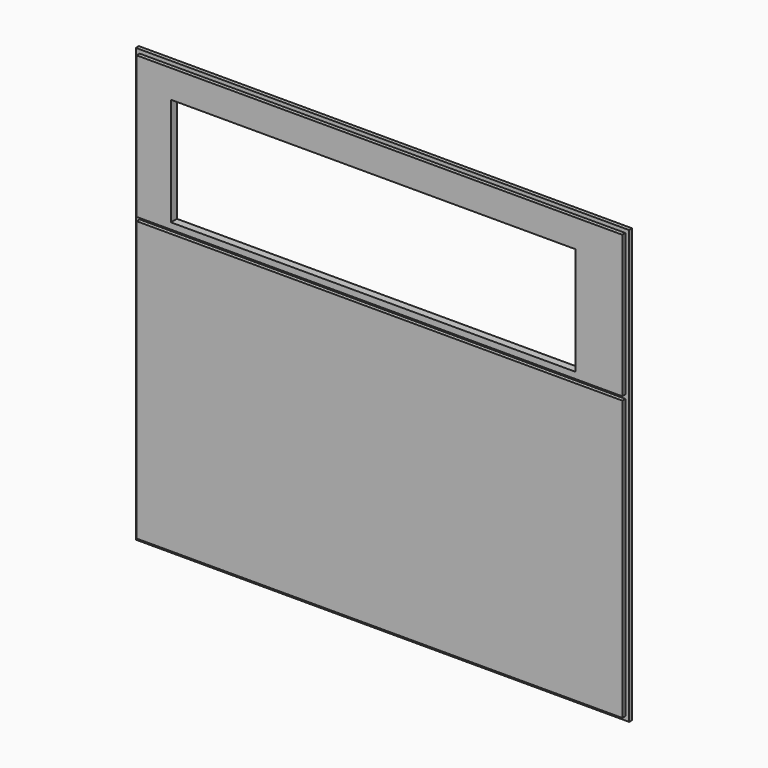
from build123d import *

# Parameters (mm, degrees)
F0_W      = 777
F0_H      = 682
F1_DEPTH  = 12
F2_W      = 777
F2_H      = 6
F3_DEPTH  = 6
F4_W      = 637
F4_H      = 170
F5_DEPTH  = 12
F6_W      = 777
F6_H      = 6
F7_DEPTH  = 6
F8_W      = 6
F8_H      = 676
F9_DEPTH  = 6
F10_W     = 6
F10_H     = 676
F11_DEPTH = 6
F12_W     = 765
F12_H     = 6
F13_DEPTH = 6


with BuildPart() as f1:
    # F0 (on Front) → F1 (new body)
    with BuildSketch(Plane.XZ):
        Rectangle(F0_W, F0_H)
    extrude(amount=F1_DEPTH)

    # F2 (on face) → F3 (cut)
    with BuildSketch(Plane.XZ.offset(12)):
        with Locations((0, 108)):
            Rectangle(F2_W, F2_H)
    extrude(amount=-F3_DEPTH, mode=Mode.SUBTRACT)

    # F4 (on face) → F5 (cut, through all)
    with BuildSketch(Plane.XZ.offset(12)):
        with Locations((-10, 206)):
            Rectangle(F4_W, F4_H)
    extrude(amount=-F5_DEPTH, mode=Mode.SUBTRACT)

    # F6 (on face) → F7 (cut)
    with BuildSketch(Plane.XZ.offset(12)):
        with Locations((0, 338)):
            Rectangle(F6_W, F6_H)
    extrude(amount=-F7_DEPTH, mode=Mode.SUBTRACT)

    # F8 (on face) → F9 (cut)
    with BuildSketch(Plane.XZ.offset(12)):
        with Locations((-385.5, -3)):
            Rectangle(F8_W, F8_H)
    extrude(amount=-F9_DEPTH, mode=Mode.SUBTRACT)

    # F10 (on face) → F11 (cut)
    with BuildSketch(Plane.XZ.offset(12)):
        with Locations((385.5, -3)):
            Rectangle(F10_W, F10_H)
    extrude(amount=-F11_DEPTH, mode=Mode.SUBTRACT)

    # F12 (on face) → F13 (cut)
    with BuildSketch(Plane.XZ.offset(12)):
        with Locations((0, -338)):
            Rectangle(F12_W, F12_H)
    extrude(amount=-F13_DEPTH, mode=Mode.SUBTRACT)


solid = f1.part
